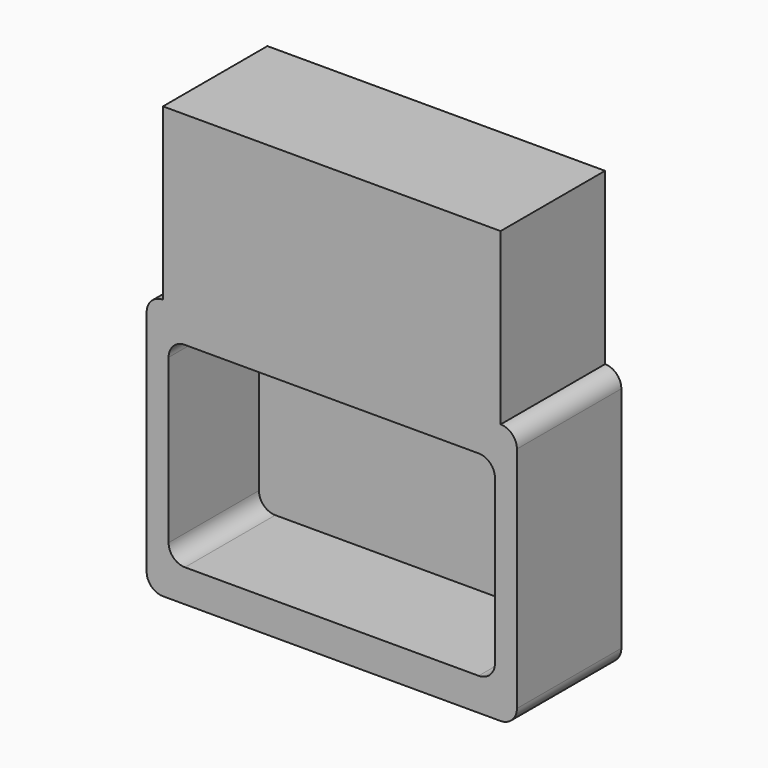
from build123d import *

# Parameters (mm, degrees)
F1_DEPTH = 6.858
F0_W     = 65.6930985093
F0_H     = 66.2315295458
F2_DEPTH = 50.8


with BuildPart() as f1:
    # F0 (on Front) → F1 (new body)
    with BuildSketch(Plane.XZ):
        with BuildLine():
            ThreePointArc((63.5, 31.75), (61.6401280605, 36.2401280605), (57.15, 38.1))
            Line((57.15, 38.1), (-57.15, 38.1))
            ThreePointArc((-57.15, 38.1), (-61.6401280605, 36.2401280605), (-63.5, 31.75))
            Line((-63.5, 31.75), (-63.5, -31.75))
            ThreePointArc((-63.5, -31.75), (-61.6401280605, -36.2401280605), (-57.15, -38.1))
            Line((-57.15, -38.1), (57.15, -38.1))
            ThreePointArc((57.15, -38.1), (61.6401280605, -36.2401280605), (63.5, -31.75))
            Line((63.5, -31.75), (63.5, 31.75))
        make_face()
    extrude(amount=F1_DEPTH)

    # F0 (on Front) → F2 (join)
    with BuildSketch(Plane.XZ):
        with Locations((-32.8465492547, 83.9157647729)):
            Rectangle(F0_W, F0_H)
        with BuildLine():
            Line((0, 50.8), (-65.6930985093, 50.8))
            ThreePointArc((-65.6930985093, 50.8), (-70.1832265698, 48.9401280605), (-72.0430985093, 44.45))
            Line((-72.0430985093, 44.45), (-72.0430985093, -44.45))
            ThreePointArc((-72.0430985093, -44.45), (-70.1832265698, -48.9401280605), (-65.6930985093, -50.8))
            Line((-65.6930985093, -50.8), (65.6930985093, -50.8))
            ThreePointArc((65.6930985093, -50.8), (70.1832265698, -48.9401280605), (72.0430985093, -44.45))
            Line((72.0430985093, -44.45), (72.0430985093, 44.45))
            ThreePointArc((72.0430985093, 44.45), (70.1832265698, 48.9401280605), (65.6930985093, 50.8))
            Line((65.6930985093, 50.8), (0, 50.8))
        make_face()
        with BuildLine():
            Line((-57.15, 38.1), (57.15, 38.1))
            ThreePointArc((57.15, 38.1), (61.6401280605, 36.2401280605), (63.5, 31.75))
            Line((63.5, 31.75), (63.5, -31.75))
            ThreePointArc((63.5, -31.75), (61.6401280605, -36.2401280605), (57.15, -38.1))
            Line((57.15, -38.1), (-57.15, -38.1))
            ThreePointArc((-57.15, -38.1), (-61.6401280605, -36.2401280605), (-63.5, -31.75))
            Line((-63.5, -31.75), (-63.5, 31.75))
            ThreePointArc((-63.5, 31.75), (-61.6401280605, 36.2401280605), (-57.15, 38.1))
        make_face(mode=Mode.SUBTRACT)
        with Locations((32.8465492547, 83.9157647729)):
            Rectangle(F0_W, F0_H)
    extrude(amount=F2_DEPTH)


solid = f1.part
